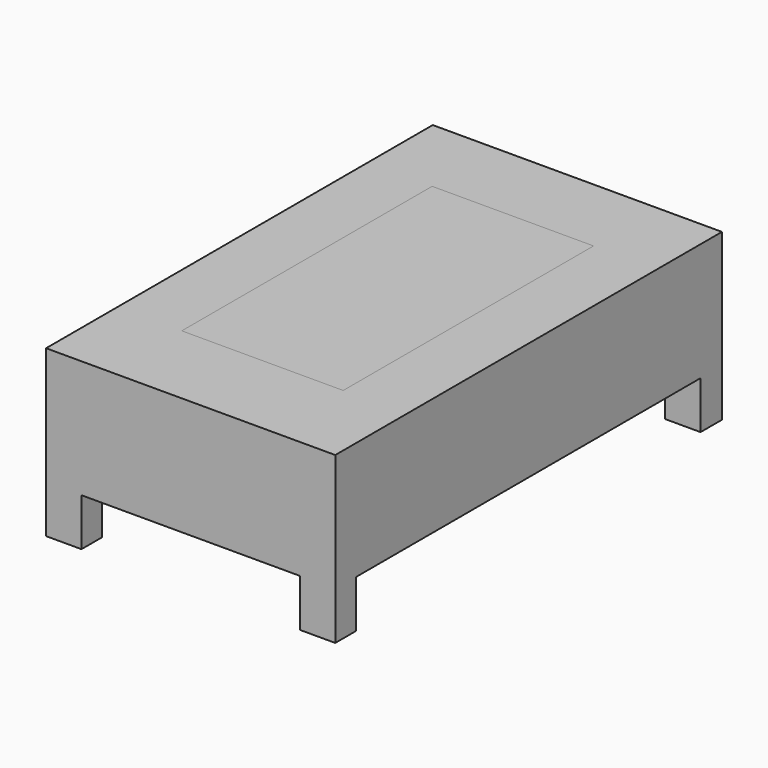
from build123d import *

# Parameters (mm, degrees)
F2_W     = 62.3011216521
F2_H     = 104.1196808219
F3_DEPTH = 25.4
F0_W     = 34.7776822746
F0_H     = 67.4217604101
F4_W     = 5.5473595858
F4_H     = 10.2412803099
F4_W_2   = 5.760718137
F5_DEPTH = 7.62
F6_W     = 5.5473595858
F6_H     = 10.2412803099
F6_W_2   = 5.5473633111
F7_DEPTH = 7.62


with BuildPart() as f3:
    # F2 (on face) → F3 (new body)
    with BuildSketch(Plane.XY):
        Rectangle(F2_W, F2_H)
    extrude(amount=F3_DEPTH)

    # F4 (on face) → F5 (join)
    with BuildSketch(Plane.YZ.offset(31.1505608261)):
        with Locations((-49.2861606181, -5.1206401549)):
            Rectangle(F4_W, F4_H)
        with Locations((49.1794813424, -5.1206401549)):
            Rectangle(F4_W_2, F4_H)
    extrude(amount=-F5_DEPTH)

    # F6 (on face) → F7 (join)
    with BuildSketch(Plane(origin=(-31.1505608261, 0, 0), x_dir=(0, -1, 0), z_dir=(-1, 0, 0))):
        with Locations((-49.2861606181, -5.1206401549)):
            Rectangle(F6_W, F6_H)
        with Locations((49.2861587554, -5.1206401549)):
            Rectangle(F6_W_2, F6_H)
    extrude(amount=-F7_DEPTH)


with BuildPart() as f3b:
    # F0 (on Top) → F3, piece 2 (new body)
    with BuildSketch(Plane.XY):
        with Locations((0.1066811383, 0.853439793)):
            Rectangle(F0_W, F0_H)
    extrude(amount=F3_DEPTH)


solid = Compound([f3.part, f3b.part])
